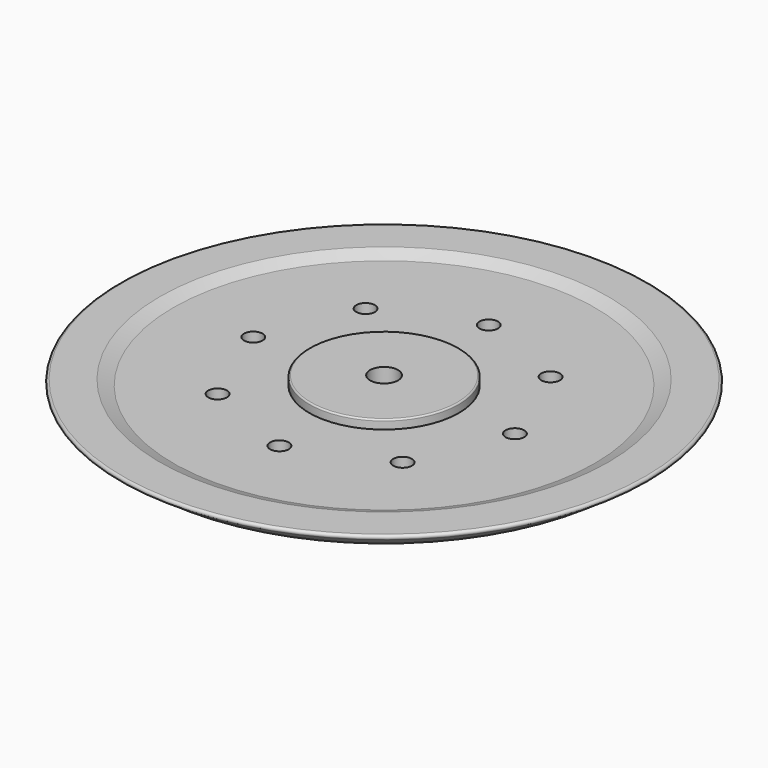
from build123d import *

# Parameters (mm, degrees)
F3_D = 6.35


with BuildPart() as f1:
    # F0 (on Front) → F1 (revolve)
    with BuildSketch(Plane.XZ):
        with BuildLine():
            Line((4.7625, 7.62), (4.7625, 0))
            Line((4.7625, 0), (82.098445, 0))
            Line((82.098445, 0), (88.9, 4.7625))
            ThreePointArc((88.9, 4.7625), (89.69375, 5.55625), (88.9, 6.35))
            Line((88.9, 6.35), (76.2, 6.35))
            Line((76.2, 6.35), (71.625657, 4.570592))
            Line((71.625657, 4.570592), (25.4, 4.570592))
            Line((25.4, 4.570592), (25.4, 7.107957))
            ThreePointArc((25.4, 7.107957), (25.250026, 7.470026), (24.887957, 7.62))
            Line((24.887957, 7.62), (4.7625, 7.62))
        make_face()
    revolve(axis=Axis((0, 0, 3.81), (0, 0, -1)))

    # F3 (through all)
    with Locations(Plane.XY.offset(4.570592)):
        with Locations((0, 44.45), (31.430896, 31.430896), (44.45, 0), (31.430896, -31.430896), (0, -44.45), (-31.430896, -31.430896), (-44.45, 0), (-31.430896, 31.430896)):
            Hole(F3_D / 2)


solid = f1.part
